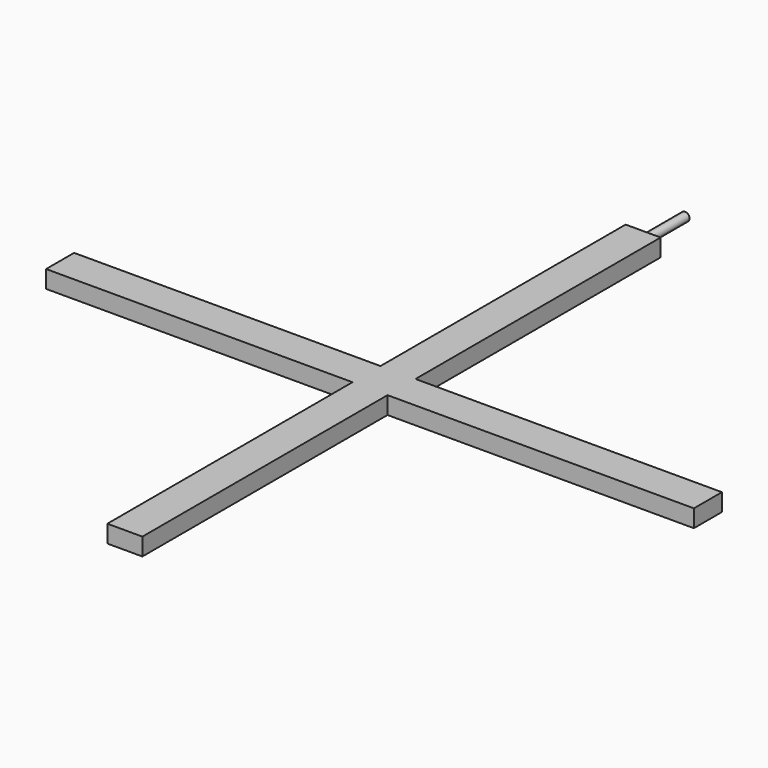
from build123d import *

# Parameters (mm, degrees)
F1_DEPTH = 12.7
F3_R     = 3.175
F4_DEPTH = 38.1


with BuildPart() as f1:
    # F0 (on Top) → F1 (new body)
    with BuildSketch(Plane.XY):
        Polygon((-25.4, 0), (0, 0), (0, 222.25), (222.25, 222.25), (222.25, 247.65), (0, 247.65), (0, 469.9), (-25.4, 469.9), (-25.4, 247.65), (-247.65, 247.65), (-247.65, 222.25), (-25.4, 222.25), align=None)
    extrude(amount=F1_DEPTH)

    # F3 (on face) → F4 (join)
    with BuildSketch(Plane(origin=(0, 469.9, 0), x_dir=(-1, 0, 0), z_dir=(0, 1, 0))):
        with Locations((12.7, 6.35)):
            Circle(F3_R)
    extrude(amount=F4_DEPTH)


solid = f1.part
